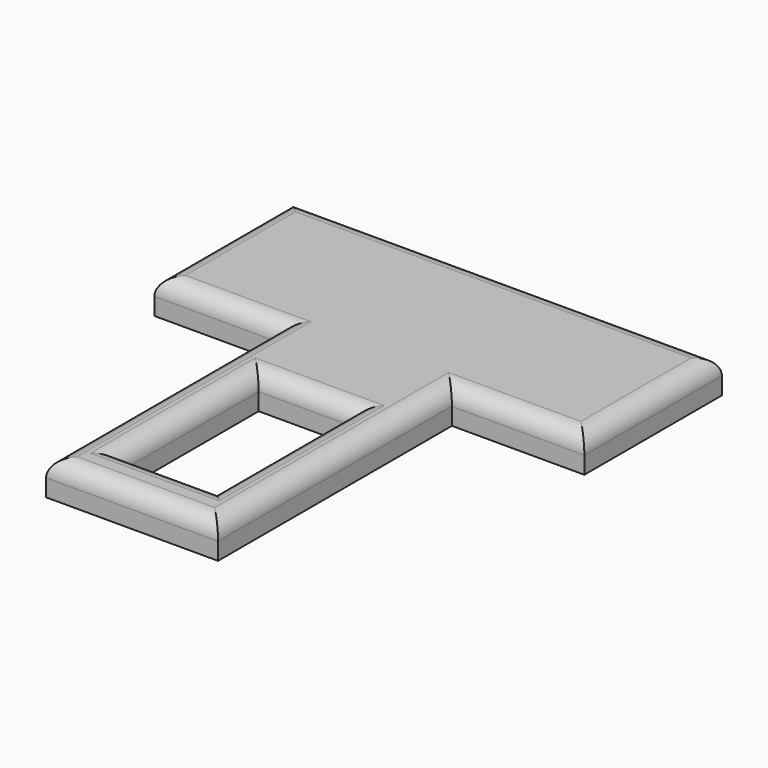
from build123d import *

# Parameters (mm, degrees)
F0_W     = 20
F0_H     = 16.561124
F0_H_2   = 34
F0_W_2   = 11
F0_H_3   = 20
F1_DEPTH = 4
F2_R     = 2


with BuildPart() as f1:
    # F0 (on Top) → F1 (new body)
    with BuildSketch(Plane.XY):
        Polygon((-24.600484, 8.719438), (-10, 8.719438), (-10, 25.280562), (10, 25.280562), (10, 8.719438), (25.399516, 8.719438), (25.399516, 28.719438), (-24.600484, 28.719438), align=None)
        with Locations((0, 17)):
            Rectangle(F0_W, F0_H)
        with Locations((0, -8.280562)):
            Rectangle(F0_W, F0_H_2)
        with Locations((0, -10)):
            Rectangle(F0_W_2, F0_H_3, mode=Mode.SUBTRACT)
    extrude(amount=F1_DEPTH)

    # F2
    f2_edges = [f1.edges().sort_by_distance(p)[0] for p in [
        (0.399516, 28.719438, 4),
        (-24.600484, 18.719438, 4),
        (-17.300242, 8.719438, 4),
        (-10, -8.280562, 4),
        (0, -25.280562, 4),
        (10, -8.280562, 4),
        (17.699758, 8.719438, 4),
        (25.399516, 18.719438, 4),
        (0, -20, 4),
        (-5.5, -10, 4),
        (0, 0, 4),
        (5.5, -10, 4),
    ]]
    fillet(f2_edges, radius=F2_R)


solid = f1.part
